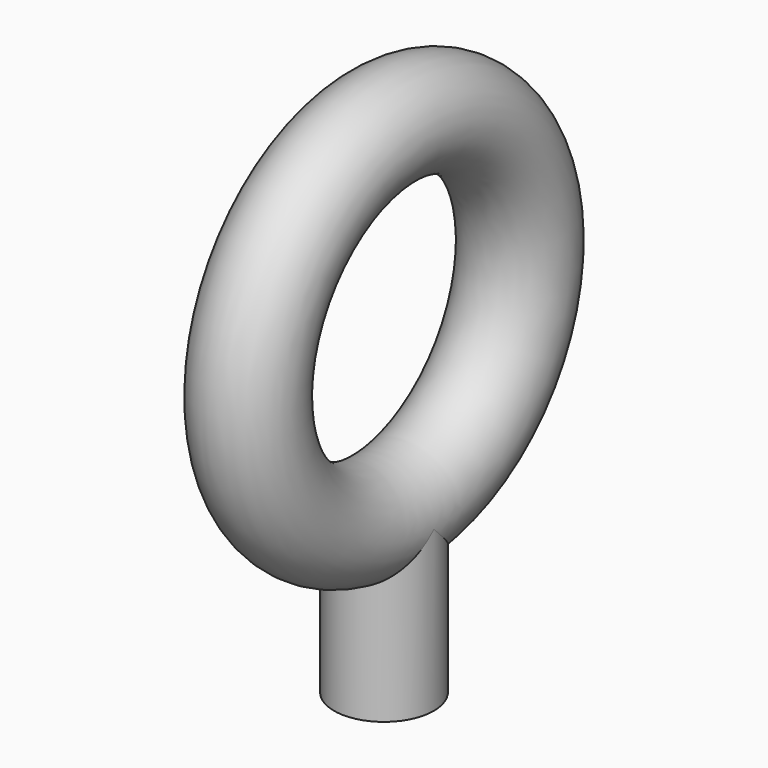
from build123d import *

# Parameters (mm, degrees)
F0_R     = 7.9375
F2_R     = 7.9375
F3_DEPTH = 25.4


with BuildPart() as f1:
    # F0 (on Front) → F1 (revolve)
    with BuildSketch(Plane.XZ):
        Circle(F0_R)
    revolve(axis=Axis((0.060984, 0, 26.9875), (1, 0, 0)))

    # F2 (on Top) → F3 (join)
    with BuildSketch(Plane.XY):
        Circle(F2_R)
    extrude(amount=-F3_DEPTH)


solid = f1.part
